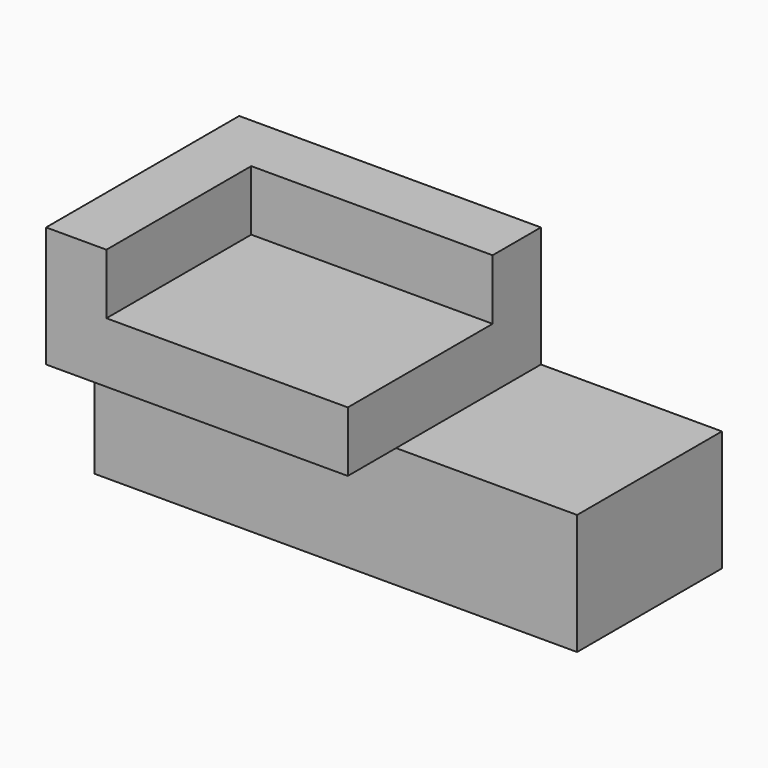
from build123d import *

# Parameters (mm, degrees)
F1_DEPTH = 101.6
F2_W     = 101.6
F2_H     = 76.2
F3_DEPTH = 25.4
F4_W     = 203.2
F4_H     = 50.8
F5_DEPTH = 25.4


with BuildPart() as f1:
    # F0 (on Front) → F1 (new body)
    with BuildSketch(Plane.XZ):
        Polygon((0, 37.746653), (-127, 37.746653), (-127, -63.853347), (76.2, -63.853347), (76.2, -13.053347), (0, -13.053347), align=None)
    extrude(amount=F1_DEPTH)

    # F2 (on face) → F3 (cut)
    with BuildSketch(Plane.XY.offset(37.746653)):
        with Locations((-50.8, -63.5)):
            Rectangle(F2_W, F2_H)
    extrude(amount=-F3_DEPTH, mode=Mode.SUBTRACT)

    # F4 (on face) → F5 (cut)
    with BuildSketch(Plane.XZ.offset(101.6)):
        with Locations((-25.4, -38.453347)):
            Rectangle(F4_W, F4_H)
    extrude(amount=-F5_DEPTH, mode=Mode.SUBTRACT)


solid = f1.part
